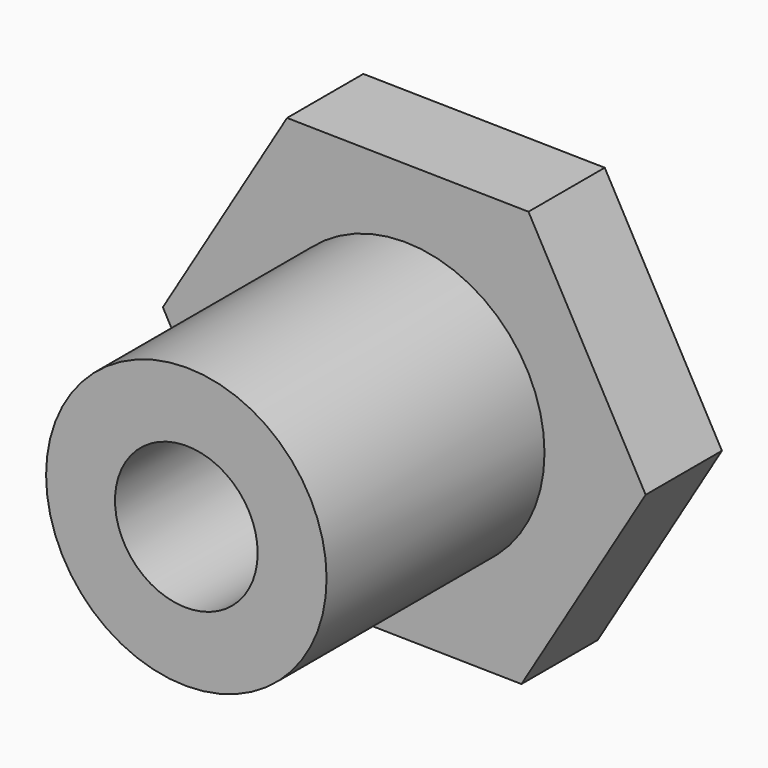
from build123d import *

# Parameters (mm, degrees)
F0_R     = 13.077875
F0_R_2   = 6.650081
F1_DEPTH = 25.4
F3_DEPTH = 8.89


with BuildPart() as f1:
    # F0 (on Front) → F1 (new body)
    with BuildSketch(Plane.XZ):
        Circle(F0_R)
        Circle(F0_R_2, mode=Mode.SUBTRACT)
    extrude(amount=F1_DEPTH)

    # F2 (on Front) → F3 (join)
    with BuildSketch(Plane.XZ):
        Polygon((-10.926934, 19.683332), (-22.509733, 0.378664), (-11.582799, -19.304669), (10.926934, -19.683332), (22.509733, -0.378664), (11.582799, 19.304669), align=None)
    extrude(amount=-F3_DEPTH)


solid = f1.part
